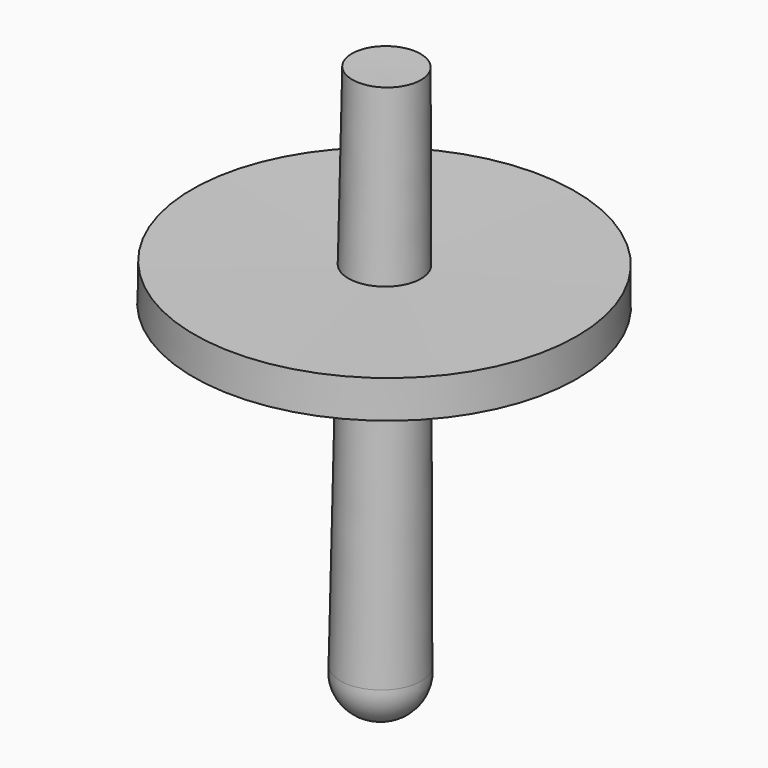
from build123d import *


with BuildPart() as f1:
    # F0 (on Front) → F1 (revolve)
    with BuildSketch(Plane.XZ):
        with BuildLine():
            Line((0, 28.4764673561), (-0.870731233, -48.2042273823))
            ThreePointArc((-0.870731233, -48.2042273823), (3.2356058271, -46.6364067901), (4.6311216429, -42.4683615565))
            Line((4.6311216429, -42.4683615565), (4.6311216429, 0))
            Line((4.6311216429, 0), (25.5204327404, 0))
            Line((25.5204327404, 0), (25.5204327404, 5.0252587534))
            Line((25.5204327404, 5.0252587534), (4.6311216429, 5.0252587534))
            Line((4.6311216429, 5.0252587534), (4.6311216429, 28.4764673561))
            Line((4.6311216429, 28.4764673561), (0, 28.4764673561))
        make_face()
    revolve(axis=Axis((-0.4353656165, 0, -9.8638800131), (0.0113545542, 0, 0.999935535)))


solid = f1.part
